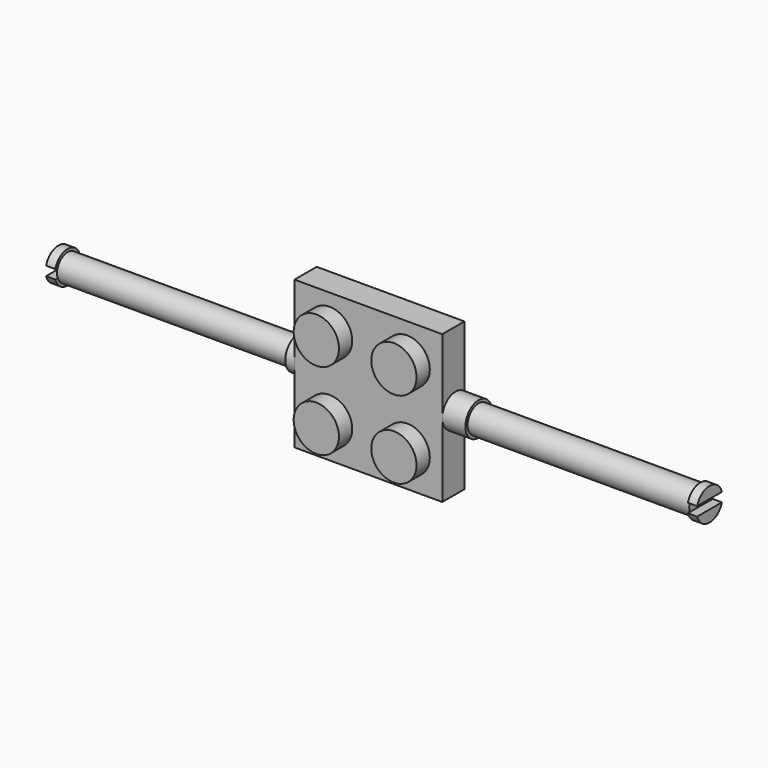
from build123d import *

# Parameters (mm, degrees)
F0_W      = 16
F0_H      = 16
F1_DEPTH  = 3
F2_R      = 2.45
F3_DEPTH  = 1.8
F4_R      = 1.800771
F5_DEPTH  = 2.5
F6_R      = 1.5
F7_DEPTH  = 25
F8_R      = 1.75
F9_DEPTH  = 1
F11_DEPTH = 1
F13_DEPTH = 1
F14_R     = 1.446207
F15_DEPTH = 25
F16_R     = 1.75
F17_DEPTH = 1
F19_DEPTH = 1


with BuildPart() as f1:
    # F0 (on Front) → F1 (new body)
    with BuildSketch(Plane.XZ):
        Rectangle(F0_W, F0_H)
    extrude(amount=F1_DEPTH)

    # F2 (on face) → F3 (join)
    with BuildSketch(Plane.XZ.offset(3)):
        with Locations((-4.2, 4.2)):
            Circle(F2_R)
        with Locations((4.2, 4.2)):
            Circle(F2_R)
        with Locations((-4.2, -4.2)):
            Circle(F2_R)
        with Locations((4.2, -4.2)):
            Circle(F2_R)
    extrude(amount=F3_DEPTH)

    # F4 (on face) → F5 (join)
    with BuildSketch(Plane.YZ.offset(8)):
        with Locations((-1.199229, 0)):
            Circle(F4_R)
    extrude(amount=F5_DEPTH)

    # F6 (on face) → F7 (join)
    with BuildSketch(Plane.YZ.offset(10.5)):
        with Locations((-1.199229, 0)):
            Circle(F6_R)
    extrude(amount=F7_DEPTH)

    # F8 (on face) → F9 (join)
    with BuildSketch(Plane.YZ.offset(35.5)):
        with Locations((-1.199229, 0)):
            Circle(F8_R)
    extrude(amount=-F9_DEPTH)

    # F10 (on face) → F11 (cut)
    with BuildSketch(Plane.YZ.offset(35.5)):
        with BuildLine():
            Line((0.477822, 0.5), (-2.87628, 0.5))
            ThreePointArc((-2.87628, 0.5), (-2.949229, 0), (-2.87628, -0.5))
            Line((-2.87628, -0.5), (0.477822, -0.5))
            ThreePointArc((0.477822, -0.5), (0.532437, -0.252647), (0.550771, 0))
            ThreePointArc((0.550771, 0), (0.532437, 0.252647), (0.477822, 0.5))
        make_face()
    extrude(amount=-F11_DEPTH, mode=Mode.SUBTRACT)

    # F12 (on face) → F13 (join)
    with BuildSketch(Plane(origin=(-8, 0, 0), x_dir=(0, -1, 0), z_dir=(-1, 0, 0))):
        with BuildLine():
            ThreePointArc((-0.59449, 0), (1.202755, -1.797245), (3, 0))
            Line((3, 0), (-0.59449, 0))
        make_face()
        with BuildLine():
            Line((-0.59449, 0), (3, 0))
            ThreePointArc((3, 0), (1.202755, 1.797245), (-0.59449, 0))
        make_face()
    extrude(amount=F13_DEPTH)

    # F14 (on face) → F15 (join)
    with BuildSketch(Plane(origin=(-9, 0, 0), x_dir=(0, -1, 0), z_dir=(-1, 0, 0))):
        with Locations((1.202755, 0)):
            Circle(F14_R)
    extrude(amount=F15_DEPTH)

    # F16 (on face) → F17 (join)
    with BuildSketch(Plane(origin=(-34, 0, 0), x_dir=(0, -1, 0), z_dir=(-1, 0, 0))):
        with Locations((1.202755, 0)):
            Circle(F16_R)
    extrude(amount=F17_DEPTH)

    # F18 (on face) → F19 (cut)
    with BuildSketch(Plane(origin=(-35, 0, 0), x_dir=(0, -1, 0), z_dir=(-1, 0, 0))):
        with BuildLine():
            Line((2.879806, 0.5), (-0.474296, 0.5))
            ThreePointArc((-0.474296, 0.5), (-0.547245, 0), (-0.474296, -0.5))
            Line((-0.474296, -0.5), (2.879806, -0.5))
            ThreePointArc((2.879806, -0.5), (2.934422, -0.252647), (2.952755, 0))
            ThreePointArc((2.952755, 0), (2.934422, 0.252647), (2.879806, 0.5))
        make_face()
    extrude(amount=-F19_DEPTH, mode=Mode.SUBTRACT)


solid = f1.part
